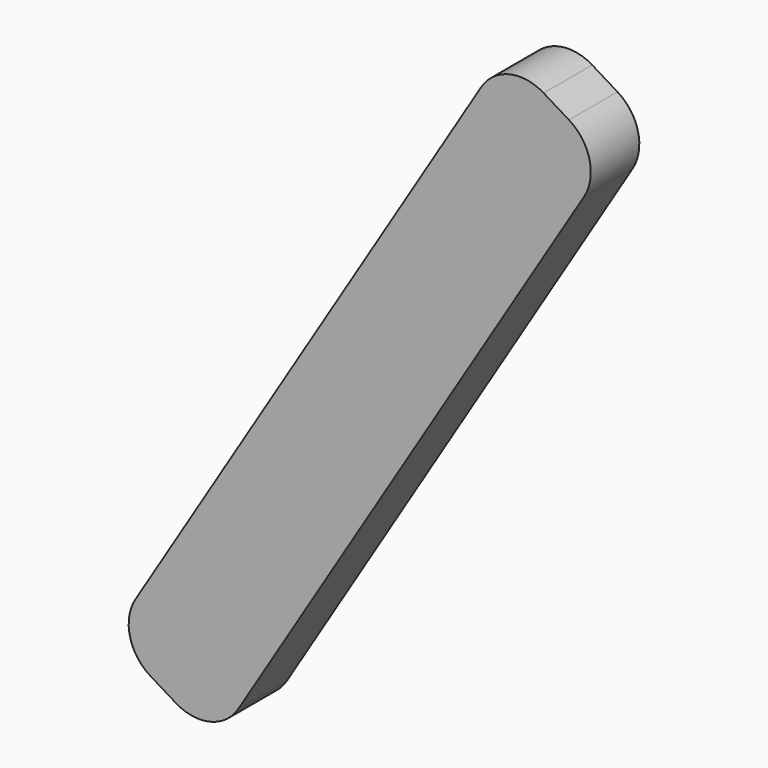
from build123d import *

# Parameters (mm, degrees)
PAD020_DEPTH = 4
FILLET015_R  = 3


with BuildPart() as fillet015:
    # Sketch024 → Pad020 (new body)
    with BuildSketch(Plane.XZ.offset(5)):
        Polygon((-45.702244, -3.721947), (-38.908337, 0.415547), (-12.968213, -41.849118), (-19.76212, -45.986612), align=None)
    extrude(amount=PAD020_DEPTH)

    # Fillet015
    fillet015_edges = [fillet015.edges().sort_by_distance(p)[0] for p in [
        (-45.702244, -7, -3.721947),
        (-38.908337, -7, 0.415547),
        (-12.968213, -7, -41.849118),
        (-19.76212, -7, -45.986612),
    ]]
    fillet(fillet015_edges, radius=FILLET015_R)


with BuildPart() as part_mirroring011:
    # Part__Mirroring011: instance of Fillet015
    add(fillet015.part.mirror(Plane(origin=(0, 0, 0), x_dir=(0, -1, 0), z_dir=(1, 0, 0))))


with BuildPart() as part_mirroring011_1:
    # Part__Mirroring011 placement: moved
    add(part_mirroring011.part.moved(Location((76, 0, 0))))


solid = part_mirroring011_1.part
